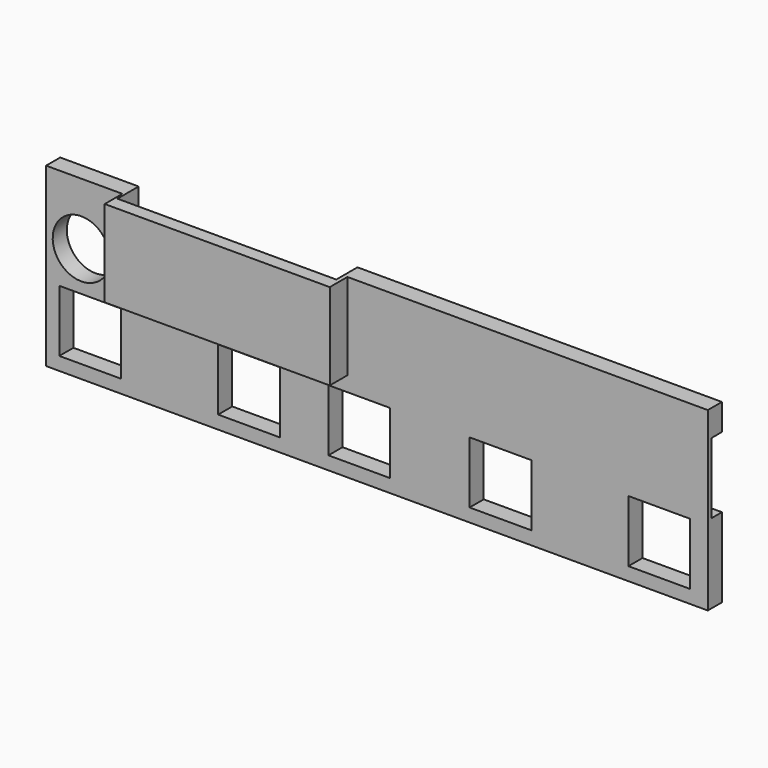
from build123d import *

# Parameters (mm, degrees)
F0_W     = 40.8479798585
F0_H     = 4
F0_W_2   = 7
F0_H_2   = 7
F1_DEPTH = 2
F0_W_3   = 25.5042742938
F0_H_3   = 5.8133912664
F2_DEPTH = 4.5
F4_W     = 5
F4_H     = 8
F5_DEPTH = 1.5
F6_W     = 24.8026130721
F6_H     = 9.2125886586
F7_DEPTH = 3


with BuildPart() as f1:
    # F0 (on Front) → F1 (new body)
    with BuildSketch(Plane.XZ):
        with Locations((17.0760100707, 10)):
            Rectangle(F0_W, F0_H)
        with BuildLine():
            Line((-37.5, 12), (-37.5, 8))
            Line((-37.5, 8), (-34.75, 8))
            ThreePointArc((-34.75, 8), (-33.5, 8.25), (-32.25, 8))
            Line((-32.25, 8), (-28.8522541523, 8))
            Line((-28.8522541523, 8), (-28.8522541523, 12))
            Line((-28.8522541523, 12), (-37.5, 12))
        make_face()
        with BuildLine():
            Line((-37.5, 8), (-37.5, -8))
            Line((-37.5, -8), (37.5, -8))
            Line((37.5, -8), (37.5, 8))
            Line((37.5, 8), (-3.3479798585, 8))
            Line((-3.3479798585, 8), (-3.3479798585, 2.1866087336))
            Line((-3.3479798585, 2.1866087336), (-28.8522541523, 2.1866087336))
            Line((-28.8522541523, 2.1866087336), (-28.8522541523, 8))
            Line((-28.8522541523, 8), (-32.25, 8))
            ThreePointArc((-32.25, 8), (-30.7958365434, 6.8027756377), (-30.25, 5))
            ThreePointArc((-30.25, 5), (-35.3027756377, 2.2958365434), (-34.75, 8))
            Line((-34.75, 8), (-37.5, 8))
        make_face()
        with Locations((-32.5, -3)):
            Rectangle(F0_W_2, F0_H_2, mode=Mode.SUBTRACT)
        with Locations((-14.5, -3)):
            Rectangle(F0_W_2, F0_H_2, mode=Mode.SUBTRACT)
        with Locations((-2, -3)):
            Rectangle(F0_W_2, F0_H_2, mode=Mode.SUBTRACT)
        with Locations((14, -3)):
            Rectangle(F0_W_2, F0_H_2, mode=Mode.SUBTRACT)
        with Locations((32, -3)):
            Rectangle(F0_W_2, F0_H_2, mode=Mode.SUBTRACT)
    extrude(amount=F1_DEPTH)

    # F0 (on Front) → F2 (join)
    with BuildSketch(Plane.XZ):
        with Locations((-16.1001170054, 10)):
            Rectangle(F0_W_3, F0_H)
        with Locations((-16.1001170054, 5.0933043668)):
            Rectangle(F0_W_3, F0_H_3)
    extrude(amount=F2_DEPTH)

    # F4 (on face) → F5 (cut)
    with BuildSketch(Plane(origin=(0, 0, 0), x_dir=(-1, 0, 0), z_dir=(0, 1, 0))):
        with Locations((-35, 5)):
            Rectangle(F4_W, F4_H)
    extrude(amount=-F5_DEPTH, mode=Mode.SUBTRACT)

    # F6 (on face) → F7 (cut)
    with BuildSketch(Plane(origin=(0, 0, 0), x_dir=(-1, 0, 0), z_dir=(0, 1, 0))):
        with Locations((16.2086286582, 7.4240994873)):
            Rectangle(F6_W, F6_H)
    extrude(amount=-F7_DEPTH, mode=Mode.SUBTRACT)


solid = f1.part
